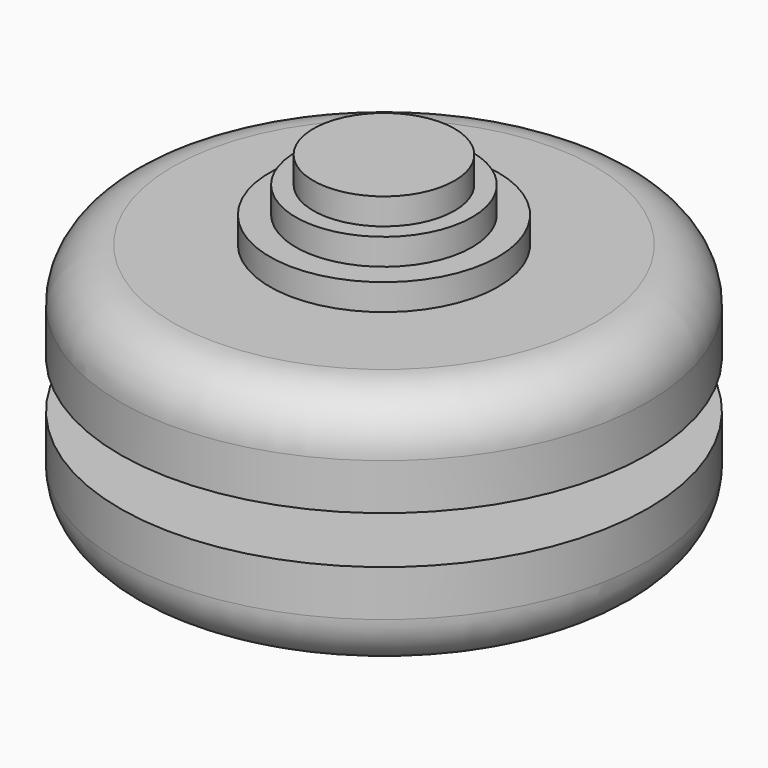
from build123d import *

# Parameters (mm, degrees)
F0_R         = 25.4
F1_DEPTH     = 9.525
F2_R         = 6.35
F3_DEPTH     = 4.572
F4_R         = 25.4
F4_R_2       = 6.35
F5_DEPTH     = 9.525
F6_R         = 5.08
F7_R         = 10.9834381756
F8_DEPTH     = 2.54
F9_R         = 8.4850918215
F10_DEPTH    = 2.54
F11_R        = 6.7919077929
F12_DEPTH    = 2.54
F13_R        = 10.98296
F10_FACE_R   = 8.4850918215
F10_FACE_R_2 = 6.7919077929
F14_DEPTH    = 2.54
F15_R        = 8.4836
F16_DEPTH    = 2.54
F17_R        = 6.7945
F18_DEPTH    = 2.54


with BuildPart() as f1:
    # F0 (on Top) → F1 (new body)
    with BuildSketch(Plane.XY):
        Circle(F0_R)
    extrude(amount=F1_DEPTH)

    # F2 (on face) → F3 (join)
    with BuildSketch(Plane.XY.offset(9.525)):
        Circle(F2_R)
    extrude(amount=F3_DEPTH)

    # F0 (on Top) + F4 (on face) → F5 (join)
    with BuildSketch(Plane.XY):
        Circle(F0_R)
    with BuildSketch(Plane.XY.offset(14.097)):
        Circle(F4_R)
        Circle(F4_R_2, mode=Mode.SUBTRACT)
        Circle(F4_R_2)
    extrude(amount=F5_DEPTH)

    # F6
    f6_edges = [f1.edges().sort_by_distance(p)[0] for p in [
        (-25.4, 0, 23.622),
        (-25.4, 0, 0),
    ]]
    fillet(f6_edges, radius=F6_R)

    # F7 (on face) → F8 (join)
    with BuildSketch(Plane.XY.offset(23.622)):
        Circle(F7_R)
    extrude(amount=F8_DEPTH)

    # F9 (on face) → F10 (join)
    with BuildSketch(Plane.XY.offset(26.162)):
        Circle(F9_R)
    extrude(amount=F10_DEPTH)

    # F11 (on face) → F12 (join)
    with BuildSketch(Plane.XY.offset(28.702)):
        Circle(F11_R)
    extrude(amount=F12_DEPTH)

    # F13 (on face) + F10_face (on face) → F14 (join)
    with BuildSketch(Plane(origin=(0, 0, 0), x_dir=(1, 0, 0), z_dir=(0, 0, -1))):
        Circle(F13_R)
    with BuildSketch(Plane.XY.offset(28.702)):
        Circle(F10_FACE_R)
        Circle(F10_FACE_R_2, mode=Mode.SUBTRACT)
    extrude(amount=F14_DEPTH, dir=(0, 0, -1))

    # F15 (on face) → F16 (join)
    with BuildSketch(Plane(origin=(0, 0, -2.54), x_dir=(1, 0, 0), z_dir=(0, 0, -1))):
        Circle(F15_R)
    extrude(amount=F16_DEPTH)

    # F17 (on face) → F18 (join)
    with BuildSketch(Plane(origin=(0, 0, -5.08), x_dir=(1, 0, 0), z_dir=(0, 0, -1))):
        Circle(F17_R)
    extrude(amount=F18_DEPTH)


solid = f1.part
